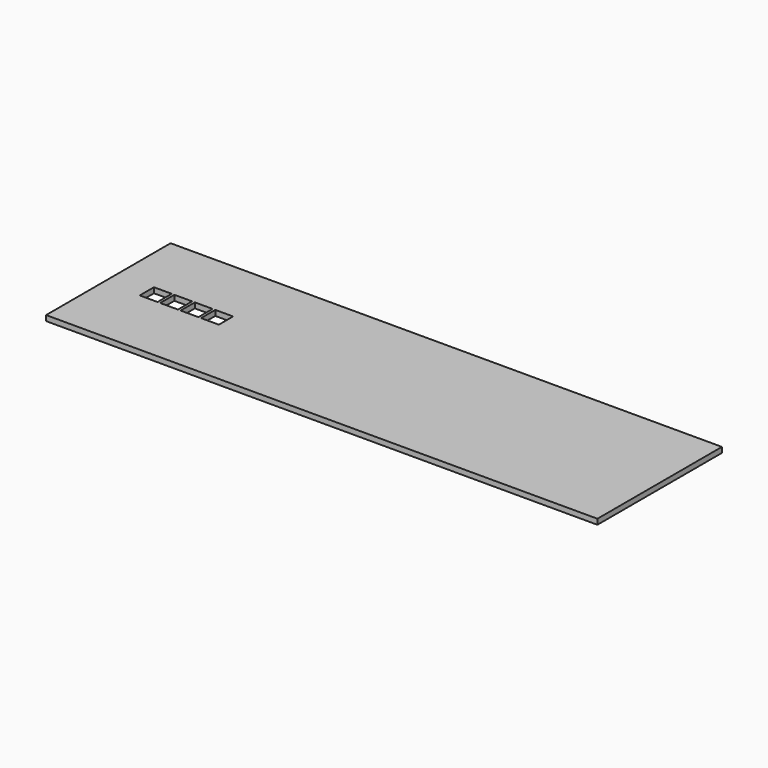
from build123d import *

# Parameters (mm, degrees)
F0_W     = 124
F0_H     = 35
F0_W_2   = 4
F0_H_2   = 4
F1_DEPTH = 1.2


with BuildPart() as f1:
    # F0 (on Top) → F1 (new body)
    with BuildSketch(Plane.XY):
        with Locations((-62.839948, 3.670385)):
            Rectangle(F0_W, F0_H)
        with Locations((-114.664387, 4.273226)):
            Rectangle(F0_W_2, F0_H_2, mode=Mode.SUBTRACT)
        with Locations((-110.064387, 4.273226)):
            Rectangle(F0_W_2, F0_H_2, mode=Mode.SUBTRACT)
        with Locations((-105.464387, 4.273226)):
            Rectangle(F0_W_2, F0_H_2, mode=Mode.SUBTRACT)
        with Locations((-100.864387, 4.273226)):
            Rectangle(F0_W_2, F0_H_2, mode=Mode.SUBTRACT)
    extrude(amount=F1_DEPTH)


solid = f1.part
